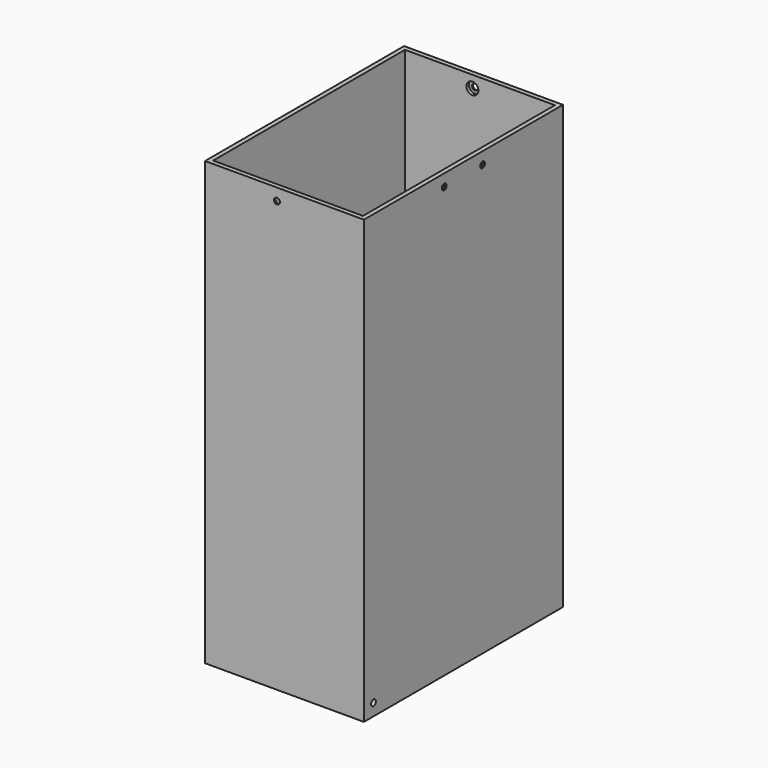
from build123d import *

# Parameters (mm, degrees)
F0_W      = 106
F0_H      = 166
F1_DEPTH  = 295
F2_T      = -3
F3_R      = 2
F4_DEPTH  = 150
F5_R      = 2
F6_DEPTH  = 125
F7_R      = 4
F8_DEPTH  = 52
F9_R      = 4
F10_DEPTH = 82


with BuildPart() as f1:
    # F0 (on Top) → F1 (new body)
    with BuildSketch(Plane.XY):
        Rectangle(F0_W, F0_H)
    extrude(amount=F1_DEPTH)

    # F2
    f2_openings = [f1.faces().sort_by_distance(p)[0] for p in [
        (0, 0, 295),
    ]]
    offset(amount=F2_T, openings=f2_openings)

    # F3 (on Right) → F4 (cut)
    with BuildSketch(Plane.YZ):
        with Locations((-16, 287)):
            Circle(F3_R)
        with Locations((16, 287)):
            Circle(F3_R)
        with Locations((-75, 8)):
            Circle(F3_R)
    extrude(amount=F4_DEPTH, mode=Mode.SUBTRACT)

    # F5 (on Front) → F6 (cut, symmetric)
    with BuildSketch(Plane.XZ):
        with Locations((-5, 287)):
            Circle(F5_R)
    extrude(amount=F6_DEPTH, both=True, mode=Mode.SUBTRACT)

    # F7 (on Right) → F8 (cut)
    with BuildSketch(Plane.YZ):
        with Locations((-16, 287)):
            Circle(F7_R)
        with Locations((16, 287)):
            Circle(F7_R)
    extrude(amount=F8_DEPTH, mode=Mode.SUBTRACT)

    # F9 (on Front) → F10 (cut, symmetric)
    with BuildSketch(Plane.XZ):
        with Locations((-5, 287)):
            Circle(F9_R)
    extrude(amount=F10_DEPTH, both=True, mode=Mode.SUBTRACT)


solid = f1.part
